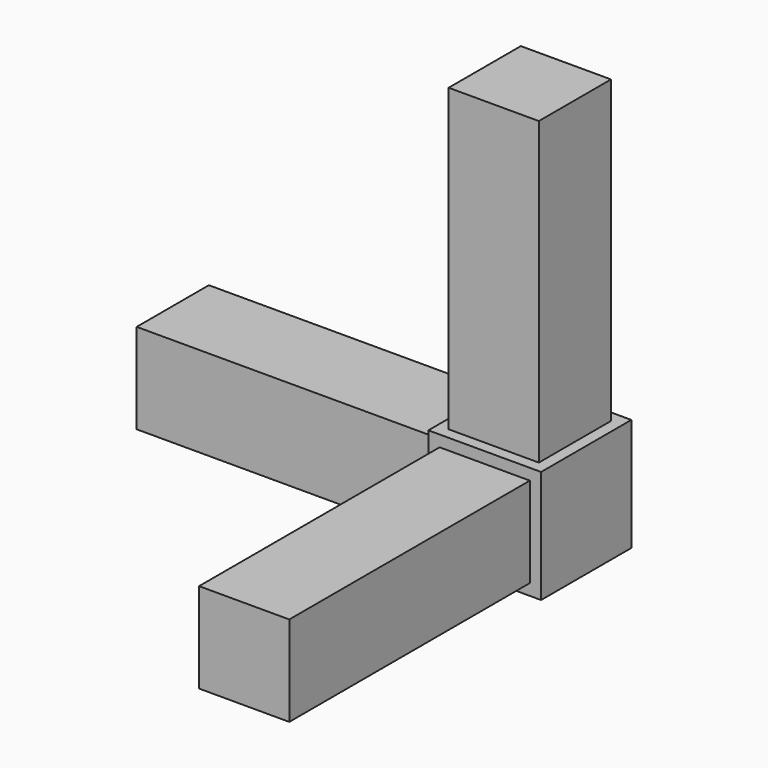
from build123d import *

# Parameters (mm, degrees)
SKETCH_W     = 15
SKETCH_H     = 15
PAD_DEPTH    = 15
SKETCH001_W  = 12
SKETCH001_H  = 12
PAD001_DEPTH = 40
SKETCH002_W  = 12
SKETCH002_H  = 12
PAD002_DEPTH = 40
SKETCH003_W  = 12
SKETCH003_H  = 12
PAD003_DEPTH = 40


with BuildPart() as part:
    # Sketch → Pad (new body)
    with BuildSketch(Plane.XY):
        Rectangle(SKETCH_W, SKETCH_H)
    extrude(amount=PAD_DEPTH)

    # Sketch001 → Pad001 (new body)
    with BuildSketch(Plane.XY.offset(15)):
        Rectangle(SKETCH001_W, SKETCH001_H)
    extrude(amount=PAD001_DEPTH)

    # Sketch002 → Pad002 (new body)
    with BuildSketch(Plane(origin=(-7.5, 0, 0), x_dir=(0, -1, 0), z_dir=(-1, 0, 0))):
        with Locations((0, 7.5)):
            Rectangle(SKETCH002_W, SKETCH002_H)
    extrude(amount=PAD002_DEPTH)

    # Sketch003 → Pad003 (new body)
    with BuildSketch(Plane.XZ.offset(7.5)):
        with Locations((0, 7.5)):
            Rectangle(SKETCH003_W, SKETCH003_H)
    extrude(amount=PAD003_DEPTH)


solid = part.part
